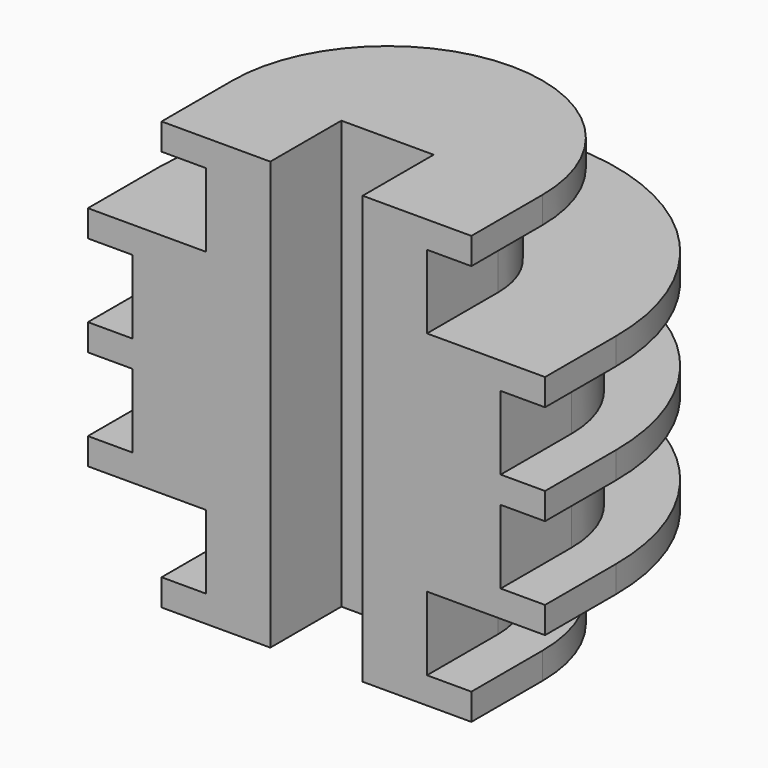
from build123d import *

# Parameters (mm, degrees)
F2_DEPTH  = 8.299
F4_DEPTH  = 3
F6_DEPTH  = 3
F8_DEPTH  = 8.299
F10_DEPTH = 3
F12_DEPTH = 8.299
F14_DEPTH = 3
F16_DEPTH = 8.299
F18_DEPTH = 3
F20_DEPTH = 10
F22_DEPTH = 10


with BuildPart() as f2:
    # F1 (on Top) → F2 (new body)
    with BuildSketch(Plane.XY):
        with BuildLine():
            ThreePointArc((-2.4485, 10), (-9.5195678119, 7.0710678119), (-12.4485, 0))
            Line((-12.4485, 0), (12.4485, 0))
            ThreePointArc((12.4485, 0), (9.5195678119, 7.0710678119), (2.4485, 10))
            Line((2.4485, 10), (0, 10))
            Line((0, 10), (-2.4485, 10))
        make_face()
    extrude(amount=F2_DEPTH)

    # F3 (on face) → F4 (join)
    with BuildSketch(Plane.XY.offset(8.299)):
        with BuildLine():
            ThreePointArc((17.4485, 0), (0, 17.4485), (-17.4485, 0))
            Line((-17.4485, 0), (17.4485, 0))
        make_face()
    extrude(amount=F4_DEPTH)

    # F5 (on face) → F6 (join)
    with BuildSketch(Plane(origin=(0, 0, 0), x_dir=(1, 0, 0), z_dir=(0, 0, -1))):
        with BuildLine():
            ThreePointArc((-25.7475, 0), (0, -25.7475), (25.7475, 0))
            Line((25.7475, 0), (-25.7475, 0))
        make_face()
    extrude(amount=F6_DEPTH)

    # F7 (on face) → F8 (join)
    with BuildSketch(Plane(origin=(0, 0, -3), x_dir=(1, 0, 0), z_dir=(0, 0, -1))):
        with BuildLine():
            ThreePointArc((7.7475, -13), (16.9398881554, -9.1923881554), (20.7475, 0))
            Line((20.7475, 0), (-20.7475, 0))
            ThreePointArc((-20.7475, 0), (-16.9398881554, -9.1923881554), (-7.7475, -13))
            Line((-7.7475, -13), (0, -13))
            Line((0, -13), (7.7475, -13))
        make_face()
    extrude(amount=F8_DEPTH)

    # F9 (on face) → F10 (join)
    with BuildSketch(Plane(origin=(0, 0, -11.299), x_dir=(1, 0, 0), z_dir=(0, 0, -1))):
        with BuildLine():
            ThreePointArc((-25.7475, 0), (0, -25.7475), (25.7475, 0))
            Line((25.7475, 0), (-25.7475, 0))
        make_face()
    extrude(amount=F10_DEPTH)

    # F11 (on face) → F12 (join)
    with BuildSketch(Plane(origin=(0, 0, -14.299), x_dir=(1, 0, 0), z_dir=(0, 0, -1))):
        with BuildLine():
            ThreePointArc((7.7475, -13), (16.9398881554, -9.1923881554), (20.7475, 0))
            Line((20.7475, 0), (-20.7475, 0))
            ThreePointArc((-20.7475, 0), (-16.9398881554, -9.1923881554), (-7.7475, -13))
            Line((-7.7475, -13), (0, -13))
            Line((0, -13), (7.7475, -13))
        make_face()
    extrude(amount=F12_DEPTH)

    # F13 (on face) → F14 (join)
    with BuildSketch(Plane(origin=(0, 0, -22.598), x_dir=(1, 0, 0), z_dir=(0, 0, -1))):
        with BuildLine():
            ThreePointArc((-25.7475, 0), (0, -25.7475), (25.7475, 0))
            Line((25.7475, 0), (-25.7475, 0))
        make_face()
    extrude(amount=F14_DEPTH)

    # F15 (on face) → F16 (join)
    with BuildSketch(Plane(origin=(0, 0, -25.598), x_dir=(1, 0, 0), z_dir=(0, 0, -1))):
        with BuildLine():
            Line((-2.4485, -10), (0, -10))
            Line((0, -10), (2.4485, -10))
            ThreePointArc((2.4485, -10), (9.5195678119, -7.0710678119), (12.4485, 0))
            Line((12.4485, 0), (0, 0))
            Line((0, 0), (-12.4485, 0))
            ThreePointArc((-12.4485, 0), (-9.5195678119, -7.0710678119), (-2.4485, -10))
        make_face()
    extrude(amount=F16_DEPTH)

    # F17 (on face) → F18 (join)
    with BuildSketch(Plane(origin=(0, 0, -33.897), x_dir=(1, 0, 0), z_dir=(0, 0, -1))):
        with BuildLine():
            ThreePointArc((-17.4485, 0), (0, -17.4485), (17.4485, 0))
            Line((17.4485, 0), (-17.4485, 0))
        make_face()
    extrude(amount=F18_DEPTH)

    # F19 (on face) → F20 (join)
    with BuildSketch(Plane.XZ):
        Polygon((0, -36.897), (17.4485, -36.897), (17.4485, -33.897), (12.4485, -33.897), (12.4485, -25.598), (25.7475, -25.598), (25.7475, -22.598), (20.7475, -22.598), (20.7475, -14.299), (25.7475, -14.299), (25.7475, -11.299), (20.7475, -11.299), (20.7475, -3), (25.7475, -3), (25.7475, 0), (12.4485, 0), (12.4485, 8.299), (17.4485, 8.299), (17.4485, 11.299), (0, 11.299), (-17.4485, 11.299), (-17.4485, 8.299), (-12.4485, 8.299), (-12.4485, 0), (-25.7475, 0), (-25.7475, -3), (-20.7475, -3), (-20.7475, -11.299), (-25.7475, -11.299), (-25.7475, -14.299), (-20.7475, -14.299), (-20.7475, -22.598), (-25.7475, -22.598), (-25.7475, -25.598), (-12.4485, -25.598), (-12.4485, -33.897), (-17.4485, -33.897), (-17.4485, -36.897), align=None)
    extrude(amount=F20_DEPTH)

    # F21 (on face) → F22 (cut)
    with BuildSketch(Plane.XZ.offset(10)):
        Polygon((-5.2, -36.897), (0, -36.897), (5.2, -36.897), (5.2, 11.299), (0, 11.299), (-5.2, 11.299), align=None)
    extrude(amount=-F22_DEPTH, mode=Mode.SUBTRACT)


solid = f2.part
